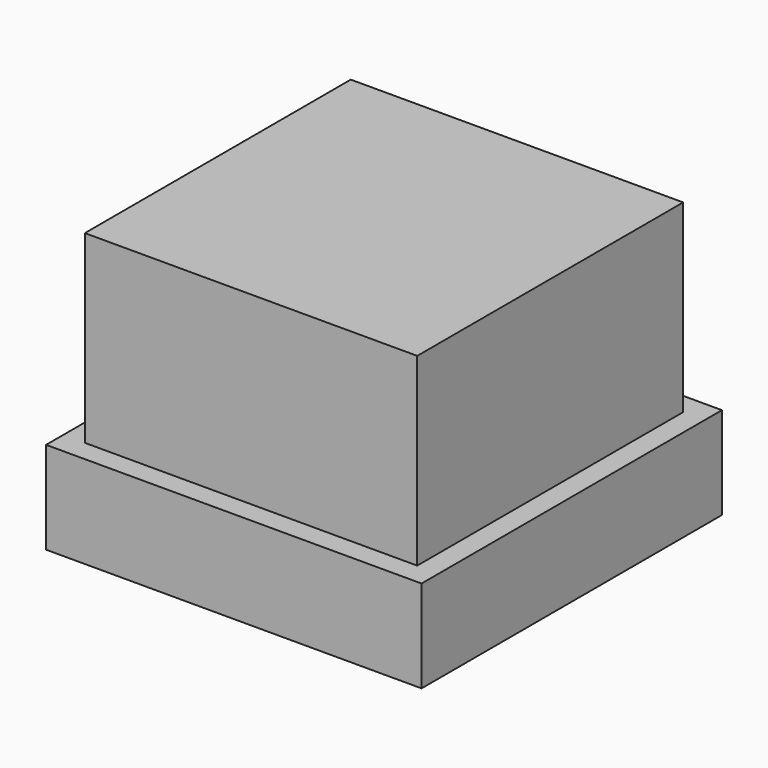
from build123d import *

# Parameters (mm, degrees)
SKETCH018_W  = 5.4
SKETCH018_H  = 5.4
PAD012_DEPTH = 3
SKETCH020_W  = 6.1
SKETCH020_H  = 6.1
PAD013_DEPTH = 1.5
SKETCH021_R  = 1.1
PAD014_DEPTH = 2


with BuildPart() as part:
    # Sketch018 → Pad012 (new body)
    with BuildSketch(Plane.XY):
        with Locations((22.2, 0)):
            Rectangle(SKETCH018_W, SKETCH018_H)
    extrude(amount=PAD012_DEPTH)

    # Sketch020 → Pad013 (join)
    with BuildSketch(Plane.XY):
        with Locations((22.2, 0)):
            Rectangle(SKETCH020_W, SKETCH020_H)
    extrude(amount=-PAD013_DEPTH)

    # Sketch021 → Pad014 (join)
    with BuildSketch(Plane.XY):
        with Locations((22.2, 0)):
            Circle(SKETCH021_R)
    extrude(amount=-PAD014_DEPTH)


with BuildPart() as part_1:
    # Body006 placement: moved
    add(part.part.moved(Location((0, 32.5, 8.5))))


solid = part_1.part
